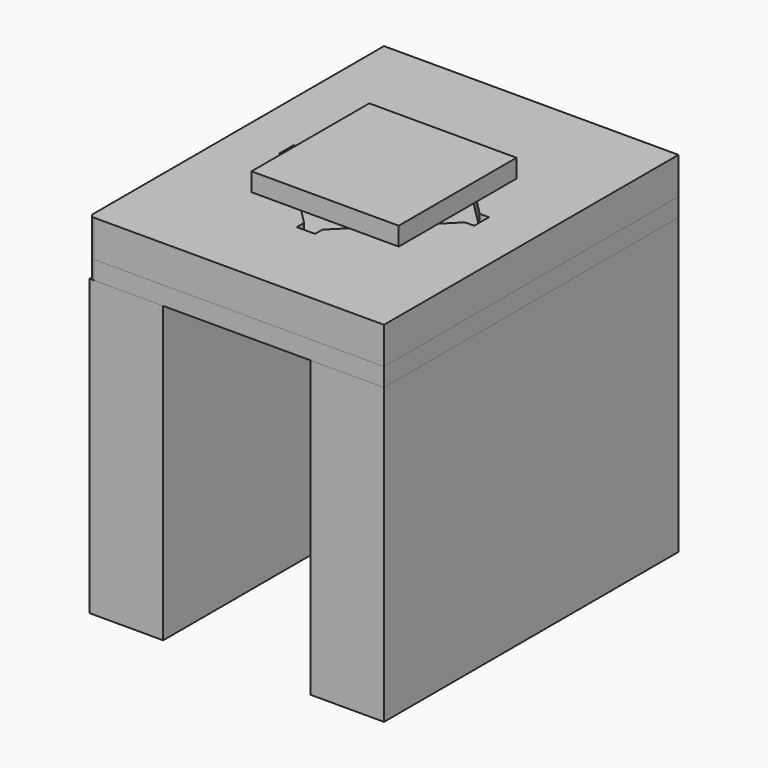
from build123d import *

# Parameters (mm, degrees)
F0_W     = 203.2
F0_H     = 406.4
F1_DEPTH = 812.8
F2_W     = 406.4
F2_H     = 812.8
F2_R     = 133.35
F3_DEPTH = 50.8
F4_W     = 812.8
F4_H     = 1016
F4_R     = 133.35
F5_DEPTH = 101.6
F6_W     = 406.4
F6_H     = 406.4
F6_R     = 133.35
F7_DEPTH = 50.8
F9_DEPTH = 38.1
F10_R    = 12.7
F11_R    = 12.7


with BuildPart() as f1:
    # F0 (on Top) → F1 (new body)
    with BuildSketch(Plane.XY):
        with Locations((-304.8, -304.8)):
            Rectangle(F0_W, F0_H)
        with Locations((-304.8, 101.6)):
            Rectangle(F0_W, F0_H)
        Polygon((0, 508), (-406.4, 508), (-406.4, 304.8), (-203.2, 304.8), (0, 304.8), align=None)
        Polygon((406.4, 508), (0, 508), (0, 304.8), (203.2, 304.8), (406.4, 304.8), align=None)
        with Locations((304.8, 101.6)):
            Rectangle(F0_W, F0_H)
        with Locations((304.8, -304.8)):
            Rectangle(F0_W, F0_H)
    extrude(amount=F1_DEPTH)


with BuildPart() as f3:
    # F2 (on face) → F3 (new body)
    with BuildSketch(Plane.XY.offset(812.8)):
        Polygon((406.4, 508), (-406.4, 508), (-406.4, -508), (-203.2, -508), (-203.2, 304.8), (203.2, 304.8), (203.2, -508), (406.4, -508), align=None)
        with Locations((0, -101.6)):
            Rectangle(F2_W, F2_H)
        Circle(F2_R, mode=Mode.SUBTRACT)
    extrude(amount=F3_DEPTH)

    # F10
    f10_edges = [f3.edges().sort_by_distance(p)[0] for p in [
        (-406.4, -508, 838.2),
    ]]
    fillet(f10_edges, radius=F10_R)


with BuildPart() as f5:
    # F4 (on face) → F5 (new body)
    with BuildSketch(Plane.XY.offset(863.6)):
        Rectangle(F4_W, F4_H)
        Circle(F4_R, mode=Mode.SUBTRACT)
    extrude(amount=F5_DEPTH)

    # F8 (on face) → F9 (cut)
    with BuildSketch(Plane.XY.offset(965.2)):
        Polygon((25.4, 269.4076836321), (0, 269.4076836321), (25.4, 244.0076836321), align=None)
        Polygon((25.4, 244.0076836321), (0, 269.4076836321), (-25.4, 244.0076836321), (-244.0076836321, 25.4), (-269.4076836321, 0), (-244.0076836321, -25.4), (-25.4, -244.0076836321), (0, -269.4076836321), (25.4, -244.0076836321), (244.0076836321, -25.4), (269.4076836321, 0), (244.0076836321, 25.4), align=None)
        Polygon((-25.4, 244.0076836321), (0, 269.4076836321), (-25.4, 269.4076836321), align=None)
        Polygon((269.4076836321, 25.4), (244.0076836321, 25.4), (269.4076836321, 0), align=None)
        Polygon((-269.4076836321, 0), (-244.0076836321, 25.4), (-269.4076836321, 25.4), align=None)
        Polygon((269.4076836321, -25.4), (269.4076836321, 0), (244.0076836321, -25.4), align=None)
        Polygon((-244.0076836321, -25.4), (-269.4076836321, 0), (-269.4076836321, -25.4), align=None)
        Polygon((25.4, -269.4076836321), (25.4, -244.0076836321), (0, -269.4076836321), align=None)
        Polygon((0, -269.4076836321), (-25.4, -244.0076836321), (-25.4, -269.4076836321), align=None)
    extrude(amount=-F9_DEPTH, mode=Mode.SUBTRACT)

    # F11
    f11_edges = [f5.edges().sort_by_distance(p)[0] for p in [
        (-406.4, -508, 914.4),
    ]]
    fillet(f11_edges, radius=F11_R)


with BuildPart() as f7:
    # F6 (on face) → F7 (new body)
    with BuildSketch(Plane.XY.offset(965.2)):
        Rectangle(F6_W, F6_H)
        Circle(F6_R, mode=Mode.SUBTRACT)
        Circle(F6_R)
    extrude(amount=F7_DEPTH)


solid = Compound([f1.part, f3.part, f5.part, f7.part])
